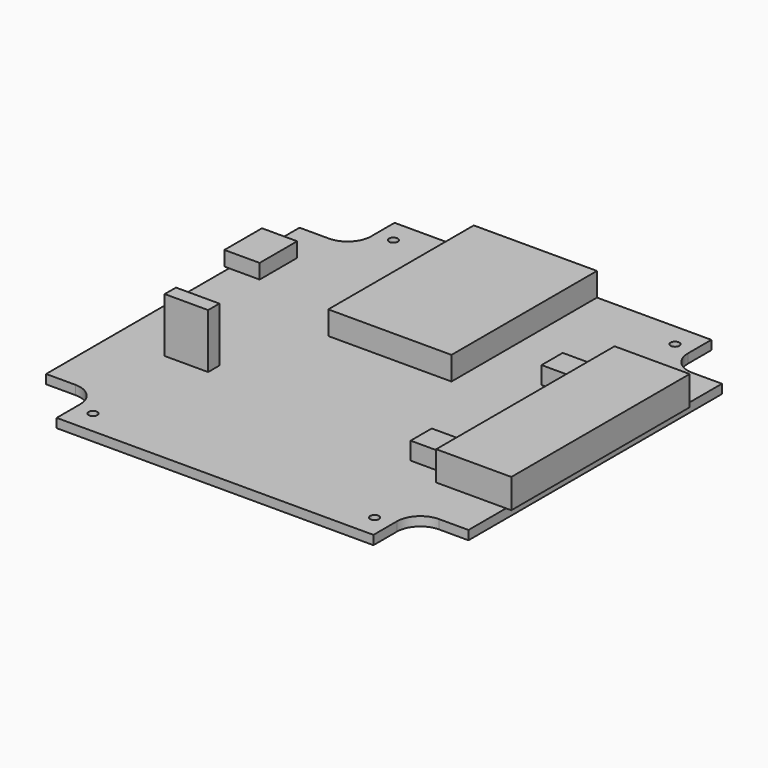
from build123d import *

# Parameters (mm, degrees)
F0_W      = 72
F0_H      = 72
F1_DEPTH  = 1.55
F2_W      = 9
F2_H      = 9
F3_DEPTH  = 1.551
F4_R      = 4
F5_W      = 21
F5_H      = 31
F6_DEPTH  = 4
F7_W      = 5.2
F7_H      = 8
F7_W_2    = 0.8
F8_DEPTH  = 2.5
F9_W      = 12.8
F9_H      = 38
F10_DEPTH = 5
F11_W     = 5.5
F11_H     = 11.5
F12_DEPTH = 2.5
F13_R     = 0.75
F14_DEPTH = 4.051
F15_W     = 4.5
F15_H     = 4.5
F16_DEPTH = 3
F17_W     = 7.4
F17_H     = 2.4
F18_DEPTH = 9.3


with BuildPart() as f1:
    # F0 (on Top) → F1 (new body)
    with BuildSketch(Plane.XY):
        with Locations((-36, -36)):
            Rectangle(F0_W, F0_H)
    extrude(amount=-F1_DEPTH)

    # F2 (on face) → F3 (cut, through all)
    with BuildSketch(Plane.XY):
        with Locations((-67.5, -67.5)):
            Rectangle(F2_W, F2_H)
        with Locations((-67.5, -4.5)):
            Rectangle(F2_W, F2_H)
        with Locations((-4.5, -4.5)):
            Rectangle(F2_W, F2_H)
        with Locations((-4.5, -67.5)):
            Rectangle(F2_W, F2_H)
    extrude(amount=-F3_DEPTH, mode=Mode.SUBTRACT)

    # F4
    f4_edges = [f1.edges().sort_by_distance(p)[0] for p in [
        (-9, -63, -0.775),
        (-63, -63, -0.775),
        (-63, -9, -0.775),
        (-9, -9, -0.775),
    ]]
    fillet(f4_edges, radius=F4_R)

    # F5 (on face) → F6 (join)
    with BuildSketch(Plane.XY):
        with Locations((-39, -15.5)):
            Rectangle(F5_W, F5_H)
    extrude(amount=F6_DEPTH)

    # F7 (on face) → F8 (join)
    with BuildSketch(Plane.XY):
        with Locations((-69.4, -20)):
            Rectangle(F7_W, F7_H)
        with Locations((-72.4, -20)):
            Rectangle(F7_W_2, F7_H)
    extrude(amount=F8_DEPTH)

    # F9 (on face) → F10 (join)
    with BuildSketch(Plane.XY):
        with Locations((-5.5, -36)):
            Rectangle(F9_W, F9_H)
    extrude(amount=F10_DEPTH)

    # F11 (on face) → F12 (join)
    with BuildSketch(Plane(origin=(0, 0, -1.55), x_dir=(1, 0, 0), z_dir=(0, 0, -1))):
        with Locations((-67.75, 36.85)):
            Rectangle(F11_W, F11_H)
    extrude(amount=F12_DEPTH)

    # F13 (on face) → F14 (cut, through all)
    with BuildSketch(Plane.XY):
        with Locations((-60, -4)):
            Circle(F13_R)
        with Locations((-12, -4)):
            Circle(F13_R)
        with Locations((-12, -68)):
            Circle(F13_R)
        with Locations((-60, -68)):
            Circle(F13_R)
    extrude(amount=-F14_DEPTH, mode=Mode.SUBTRACT)

    # F15 (on face) → F16 (join)
    with BuildSketch(Plane.XY):
        with Locations((-16.25, -22.05)):
            Rectangle(F15_W, F15_H)
        with Locations((-16.25, -49.95)):
            Rectangle(F15_W, F15_H)
    extrude(amount=F16_DEPTH)

    # F17 (on face) → F18 (join)
    with BuildSketch(Plane.XY):
        with Locations((-59.2, -47.9)):
            Rectangle(F17_W, F17_H)
    extrude(amount=F18_DEPTH)


solid = f1.part
